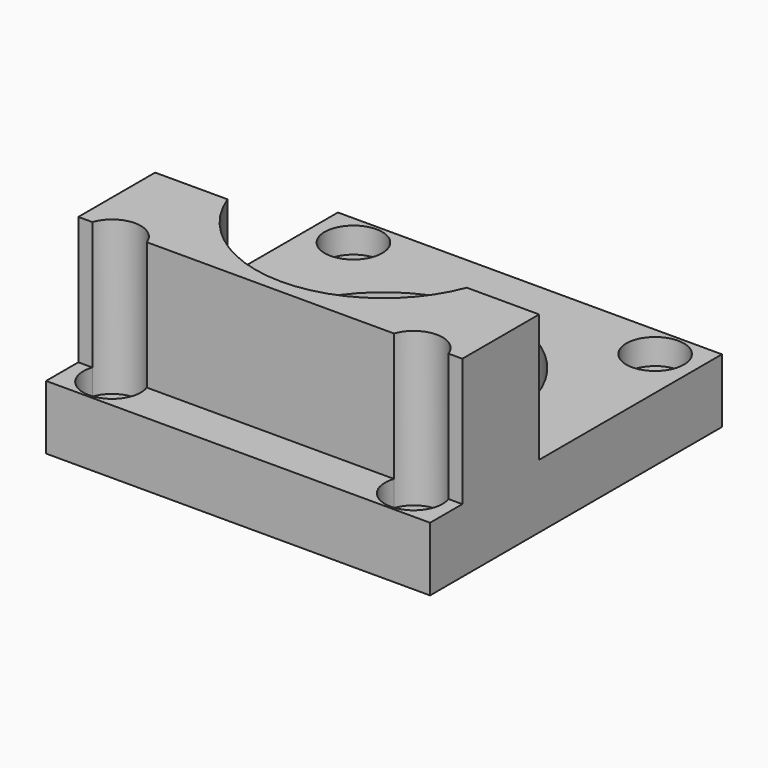
from build123d import *

# Parameters (mm, degrees)
F0_R     = 4.5
F1_DEPTH = 10
F2_DEPTH = 30
F3_DEPTH = 10
F0_R_2   = 2.5
F4_DEPTH = 6
F5_DEPTH = 6
F6_DEPTH = 6
F7_DEPTH = 1


with BuildPart() as f1:
    # F0 (on Top) → F1 (new body)
    with BuildSketch(Plane.XY):
        with BuildLine():
            Line((0, 57), (0, 21.3))
            Line((0, 21.3), (11.302673988, 21.3))
            ThreePointArc((11.302673988, 21.3), (10.4807134754, 24.0413931616), (10.0584521038, 26.8720381207))
            ThreePointArc((10.0584521038, 26.8720381207), (10, 28.4), (10.0584521038, 29.9279618793))
            ThreePointArc((10.0584521038, 29.9279618793), (30, 48.4), (49.9415478962, 29.9279618793))
            ThreePointArc((49.9415478962, 29.9279618793), (49.9853816316, 29.1645397558), (50, 28.4))
            ThreePointArc((50, 28.4), (49.9853816316, 27.6354602442), (49.9415478962, 26.8720381207))
            ThreePointArc((49.9415478962, 26.8720381207), (49.5192865246, 24.0413931616), (48.697326012, 21.3))
            Line((48.697326012, 21.3), (60, 21.3))
            Line((60, 21.3), (60, 57))
            Line((60, 57), (0, 57))
        make_face()
        with Locations((6.4448192716, 51.97)):
            Circle(F0_R, mode=Mode.SUBTRACT)
        with Locations((53.5848192716, 51.97)):
            Circle(F0_R, mode=Mode.SUBTRACT)
    extrude(amount=F1_DEPTH)

    # F0 (on Top) → F2 (join)
    with BuildSketch(Plane.XY):
        with BuildLine():
            Line((0, 21.3), (0, 6.3))
            Line((0, 6.3), (2.1916910111, 6.3))
            ThreePointArc((2.1916910111, 6.3), (6.4448192716, 9.33), (10.697947532, 6.3))
            Line((10.697947532, 6.3), (49.3316910111, 6.3))
            ThreePointArc((49.3316910111, 6.3), (53.5848192716, 9.33), (57.837947532, 6.3))
            Line((57.837947532, 6.3), (60, 6.3))
            Line((60, 6.3), (60, 21.3))
            Line((60, 21.3), (48.697326012, 21.3))
            ThreePointArc((48.697326012, 21.3), (30, 8.4), (11.302673988, 21.3))
            Line((11.302673988, 21.3), (0, 21.3))
        make_face()
    extrude(amount=F2_DEPTH)

    # F0 (on Top) → F3 (join)
    with BuildSketch(Plane.XY):
        with BuildLine():
            Line((0, 6.3), (0, 0))
            Line((0, 0), (60, 0))
            Line((60, 0), (60, 6.3))
            Line((60, 6.3), (57.837947532, 6.3))
            ThreePointArc((57.837947532, 6.3), (58.0226721968, 5.5752928377), (58.0848192716, 4.83))
            ThreePointArc((58.0848192716, 4.83), (52.8395264339, 0.3921470748), (49.3316910111, 6.3))
            Line((49.3316910111, 6.3), (10.697947532, 6.3))
            ThreePointArc((10.697947532, 6.3), (10.8826721968, 5.5752928377), (10.9448192716, 4.83))
            ThreePointArc((10.9448192716, 4.83), (5.6995264339, 0.3921470748), (2.1916910111, 6.3))
            Line((2.1916910111, 6.3), (0, 6.3))
        make_face()
    extrude(amount=F3_DEPTH)

    # F0 (on Top) → F4 (join)
    with BuildSketch(Plane.XY):
        with BuildLine():
            ThreePointArc((10.697947532, 6.3), (6.4448192716, 9.33), (2.1916910111, 6.3))
            ThreePointArc((2.1916910111, 6.3), (5.6995264339, 0.3921470748), (10.9448192716, 4.83))
            ThreePointArc((10.9448192716, 4.83), (10.8826721968, 5.5752928377), (10.697947532, 6.3))
        make_face()
        with Locations((6.4448192716, 4.83)):
            Circle(F0_R_2, mode=Mode.SUBTRACT)
    extrude(amount=F4_DEPTH)

    # F0 (on Top) → F5 (join)
    with BuildSketch(Plane.XY):
        with BuildLine():
            ThreePointArc((58.0848192716, 4.83), (58.0226721968, 5.5752928377), (57.837947532, 6.3))
            ThreePointArc((57.837947532, 6.3), (53.5848192716, 9.33), (49.3316910111, 6.3))
            ThreePointArc((49.3316910111, 6.3), (52.8395264339, 0.3921470748), (58.0848192716, 4.83))
        make_face()
        with Locations((53.5848192716, 4.83)):
            Circle(F0_R_2, mode=Mode.SUBTRACT)
    extrude(amount=F5_DEPTH)

    # F0 (on Top) → F6 (join)
    with BuildSketch(Plane.XY):
        with Locations((6.4448192716, 51.97)):
            Circle(F0_R)
        with Locations((6.4448192716, 51.97)):
            Circle(F0_R_2, mode=Mode.SUBTRACT)
        with Locations((53.5848192716, 51.97)):
            Circle(F0_R)
        with Locations((53.5848192716, 51.97)):
            Circle(F0_R_2, mode=Mode.SUBTRACT)
    extrude(amount=F6_DEPTH)

    # F0 (on Top) → F7 (join)
    with BuildSketch(Plane.XY):
        with BuildLine():
            ThreePointArc((10.0584521038, 29.9279618793), (10, 28.4), (10.0584521038, 26.8720381207))
            Line((10.0584521038, 26.8720381207), (14.0731254637, 26.8720381207))
            ThreePointArc((14.0731254637, 26.8720381207), (14, 28.4), (14.0731254637, 29.9279618793))
            Line((14.0731254637, 29.9279618793), (10.0584521038, 29.9279618793))
        make_face()
        with BuildLine():
            Line((45.9268745363, 26.8720381207), (49.9415478962, 26.8720381207))
            ThreePointArc((49.9415478962, 26.8720381207), (49.9853816316, 27.6354602442), (50, 28.4))
            ThreePointArc((50, 28.4), (49.9853816316, 29.1645397558), (49.9415478962, 29.9279618793))
            Line((49.9415478962, 29.9279618793), (45.9268745363, 29.9279618793))
            ThreePointArc((45.9268745363, 29.9279618793), (45.9817081781, 29.164855352), (46, 28.4))
            ThreePointArc((46, 28.4), (45.9817081781, 27.635144648), (45.9268745363, 26.8720381207))
        make_face()
    extrude(amount=F7_DEPTH)


solid = f1.part
